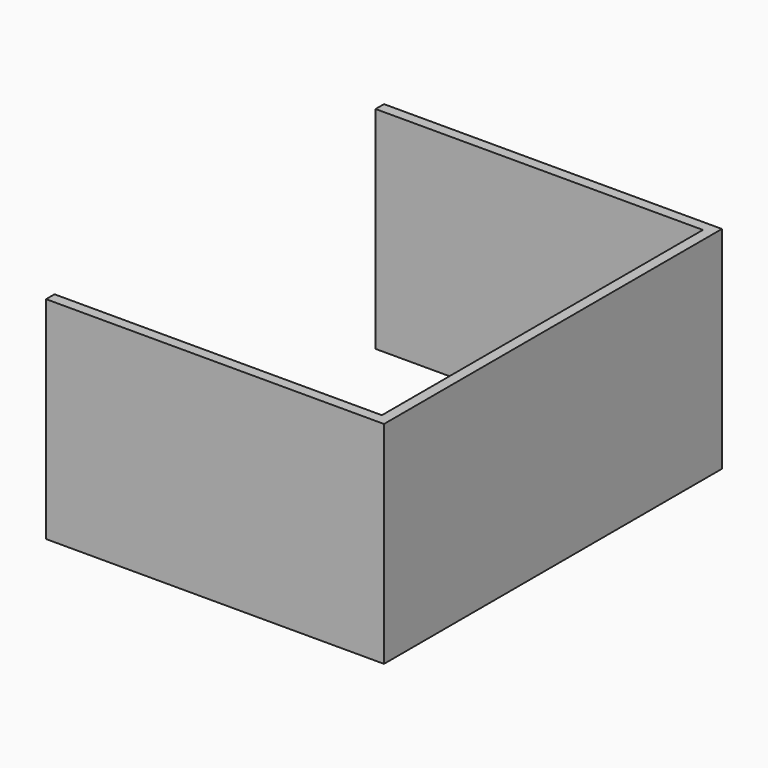
from build123d import *

# Parameters (mm, degrees)
F7_W      = 203.2
F7_H      = 254
F8_DEPTH  = 127
F9_T      = -6.35
F10_DEPTH = 25.4


with BuildPart() as f8:
    # F7 (on offset) → F8 (new body)
    with BuildSketch(Plane.XY.offset(127)):
        Rectangle(F7_W, F7_H)
    extrude(amount=F8_DEPTH)

    # F9
    f9_openings = [f8.faces().sort_by_distance(p)[0] for p in [
        (0, 0, 254),
        (0, 0, 127),
    ]]
    offset(amount=F9_T, openings=f9_openings)

    # F10 (cut): a face of the model
    f10_faces = [f8.faces().sort_by_distance(p)[0] for p in [
        (-95.25, 0, 190.5),
    ]]
    extrude(f10_faces, amount=-F10_DEPTH, mode=Mode.SUBTRACT)


solid = f8.part
